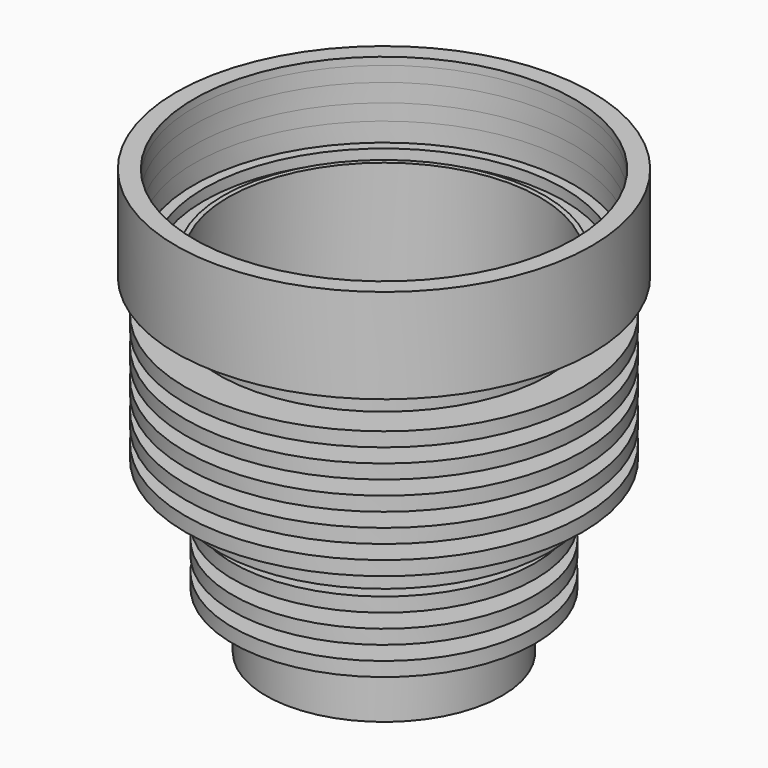
from build123d import *

# Parameters (mm, degrees)
SKETCH_R           = 25
SKETCH_R_2         = 23
PAD_DEPTH          = 22
SKETCH001_R        = 25
PAD001_DEPTH       = 8
SKETCH003_R        = 7
POCKET_DEPTH       = 8
SKETCH004_R        = 35
SKETCH004_R_2      = 23
PAD003_DEPTH       = 8
SKETCH005_R        = 1.25
POCKET001_DEPTH    = 6
POLARPATTERN_COUNT = 6
SKETCH006_R        = 35
SKETCH006_R_2      = 33
PAD004_DEPTH       = 32
SKETCH007_R        = 44
SKETCH007_R_2      = 33
PAD005_DEPTH       = 4
SKETCH008_R        = 38.1
SKETCH008_R_2      = 34
POCKET002_DEPTH    = 2.3
SKETCH009_R        = 44
SKETCH009_R_2      = 40.2
PAD006_DEPTH       = 16
FILLET_R           = 1
CYLINDER010_R      = 35
CYLINDER010_DEPTH  = 5
CYLINDER011_R      = 42
CYLINDER011_DEPTH  = 3
CYLINDER014_R      = 35
CYLINDER014_DEPTH  = 5
CYLINDER015_R      = 42
CYLINDER015_DEPTH  = 3
CYLINDER018_R      = 35
CYLINDER018_DEPTH  = 5
CYLINDER019_R      = 42
CYLINDER019_DEPTH  = 3
CYLINDER022_R      = 35
CYLINDER022_DEPTH  = 5
CYLINDER023_R      = 42
CYLINDER023_DEPTH  = 3
CYLINDER026_R      = 35
CYLINDER026_DEPTH  = 5
CYLINDER027_R      = 42
CYLINDER027_DEPTH  = 3
CYLINDER028_R      = 25
CYLINDER028_DEPTH  = 5
CYLINDER029_R      = 32
CYLINDER029_DEPTH  = 3
CYLINDER_R         = 25
CYLINDER_DEPTH     = 5
CYLINDER032_R      = 32
CYLINDER032_DEPTH  = 3
CYLINDER033_R      = 25
CYLINDER033_DEPTH  = 5
CYLINDER034_R      = 32
CYLINDER034_DEPTH  = 3
CYLINDER035_R      = 25
CYLINDER035_DEPTH  = 5
CYLINDER036_R      = 32
CYLINDER036_DEPTH  = 3
TORUS_R            = 1.6
CYLINDER031_R      = 41.2
CYLINDER031_DEPTH  = 3.4


with BuildPart() as obj1:
    # Sketch → Pad (new body)
    with BuildSketch(Plane.XY):
        Circle(SKETCH_R)
        Circle(SKETCH_R_2, mode=Mode.SUBTRACT)
    extrude(amount=PAD_DEPTH)

    # Sketch001 → Pad001 (new body)
    with BuildSketch(Plane(origin=(0, 0, 0), x_dir=(1, 0, 0), z_dir=(0, 0, -1))):
        Circle(SKETCH001_R)
    extrude(amount=PAD001_DEPTH)

    # Sketch003 → Pocket (cut)
    with BuildSketch(Plane.XY):
        Circle(SKETCH003_R)
    extrude(amount=-POCKET_DEPTH, mode=Mode.SUBTRACT)

    # Sketch004 → Pad003 (new body)
    with BuildSketch(Plane.XY.offset(22)):
        Circle(SKETCH004_R)
        Circle(SKETCH004_R_2, mode=Mode.SUBTRACT)
    extrude(amount=PAD003_DEPTH)

    # Sketch005 → Pocket001 (cut)
    with BuildSketch(Plane.XY.offset(30)):
        with Locations((-28, 0)):
            Circle(SKETCH005_R)
    pocket001 = extrude(amount=-POCKET001_DEPTH, mode=Mode.SUBTRACT)

    # PolarPattern: Pocket001 ×6 about axis
    polarpattern_axis = Axis((0, 0, 30), (0, 0, 1))
    for i in range(1, POLARPATTERN_COUNT):
        add(pocket001.rotate(polarpattern_axis, i * 360 / POLARPATTERN_COUNT), mode=Mode.SUBTRACT)

    # Sketch006 → Pad004 (new body)
    with BuildSketch(Plane.XY.offset(30)):
        Circle(SKETCH006_R)
        Circle(SKETCH006_R_2, mode=Mode.SUBTRACT)
    extrude(amount=PAD004_DEPTH)

    # Sketch007 → Pad005 (new body)
    with BuildSketch(Plane.XY.offset(62)):
        Circle(SKETCH007_R)
        Circle(SKETCH007_R_2, mode=Mode.SUBTRACT)
    extrude(amount=PAD005_DEPTH)

    # Sketch008 → Pocket002 (cut)
    with BuildSketch(Plane.XY.offset(66)):
        Circle(SKETCH008_R)
        Circle(SKETCH008_R_2, mode=Mode.SUBTRACT)
    extrude(amount=-POCKET002_DEPTH, mode=Mode.SUBTRACT)

    # Sketch009 → Pad006 (new body)
    with BuildSketch(Plane.XY.offset(66)):
        Circle(SKETCH009_R)
        Circle(SKETCH009_R_2, mode=Mode.SUBTRACT)
    extrude(amount=PAD006_DEPTH)


with BuildPart() as fillet_body:
    # Fillet base: copy of obj1
    add(obj1.part)

    # Fillet
    fillet_edges = [fillet_body.edges().sort_by_distance(p)[0] for p in [
        (-44, 0, 82),
        (-40.2, 0, 82),
    ]]
    fillet(fillet_edges, radius=FILLET_R)


with BuildPart() as obj2:
    # Cylinder010 → Cylinder010 (new body)
    with BuildSketch(Plane.XY):
        Circle(CYLINDER010_R)
    extrude(amount=CYLINDER010_DEPTH)


with BuildPart() as cut005:
    # Cylinder011 → Cylinder011 (new body)
    with BuildSketch(Plane.XY):
        Circle(CYLINDER011_R)
    extrude(amount=CYLINDER011_DEPTH)

    # Cut005: cut obj2
    add(obj2.part, mode=Mode.SUBTRACT)


with BuildPart() as cut005_1:
    # Cut005 placement: moved
    add(cut005.part.moved(Location((0, 0, 28))))


with BuildPart() as obj3:
    # Cylinder014 → Cylinder014 (new body)
    with BuildSketch(Plane.XY):
        Circle(CYLINDER014_R)
    extrude(amount=CYLINDER014_DEPTH)


with BuildPart() as cut007:
    # Cylinder015 → Cylinder015 (new body)
    with BuildSketch(Plane.XY):
        Circle(CYLINDER015_R)
    extrude(amount=CYLINDER015_DEPTH)

    # Cut007: cut obj3
    add(obj3.part, mode=Mode.SUBTRACT)


with BuildPart() as cut007_1:
    # Cut007 placement: moved
    add(cut007.part.moved(Location((0, 0, 34))))


with BuildPart() as obj4:
    # Cylinder018 → Cylinder018 (new body)
    with BuildSketch(Plane.XY):
        Circle(CYLINDER018_R)
    extrude(amount=CYLINDER018_DEPTH)


with BuildPart() as cut009:
    # Cylinder019 → Cylinder019 (new body)
    with BuildSketch(Plane.XY):
        Circle(CYLINDER019_R)
    extrude(amount=CYLINDER019_DEPTH)

    # Cut009: cut obj4
    add(obj4.part, mode=Mode.SUBTRACT)


with BuildPart() as cut009_1:
    # Cut009 placement: moved
    add(cut009.part.moved(Location((0, 0, 40))))


with BuildPart() as obj5:
    # Cylinder022 → Cylinder022 (new body)
    with BuildSketch(Plane.XY):
        Circle(CYLINDER022_R)
    extrude(amount=CYLINDER022_DEPTH)


with BuildPart() as cut011:
    # Cylinder023 → Cylinder023 (new body)
    with BuildSketch(Plane.XY):
        Circle(CYLINDER023_R)
    extrude(amount=CYLINDER023_DEPTH)

    # Cut011: cut obj5
    add(obj5.part, mode=Mode.SUBTRACT)


with BuildPart() as cut011_1:
    # Cut011 placement: moved
    add(cut011.part.moved(Location((0, 0, 46))))


with BuildPart() as obj6:
    # Cylinder026 → Cylinder026 (new body)
    with BuildSketch(Plane.XY):
        Circle(CYLINDER026_R)
    extrude(amount=CYLINDER026_DEPTH)


with BuildPart() as cut013:
    # Cylinder027 → Cylinder027 (new body)
    with BuildSketch(Plane.XY):
        Circle(CYLINDER027_R)
    extrude(amount=CYLINDER027_DEPTH)

    # Cut013: cut obj6
    add(obj6.part, mode=Mode.SUBTRACT)


with BuildPart() as cut013_1:
    # Cut013 placement: moved
    add(cut013.part.moved(Location((0, 0, 52))))


with BuildPart() as obj7:
    # Cylinder028 → Cylinder028 (new body)
    with BuildSketch(Plane.XY):
        Circle(CYLINDER028_R)
    extrude(amount=CYLINDER028_DEPTH)


with BuildPart() as cut014:
    # Cylinder029 → Cylinder029 (new body)
    with BuildSketch(Plane.XY):
        Circle(CYLINDER029_R)
    extrude(amount=CYLINDER029_DEPTH)

    # Cut014: cut obj7
    add(obj7.part, mode=Mode.SUBTRACT)


with BuildPart() as cut014_1:
    # Cut014 placement: moved
    add(cut014.part.moved(Location((0, 0, 22))))


with BuildPart() as obj8:
    # Cylinder → Cylinder (new body)
    with BuildSketch(Plane.XY):
        Circle(CYLINDER_R)
    extrude(amount=CYLINDER_DEPTH)


with BuildPart() as cut:
    # Cylinder032 → Cylinder032 (new body)
    with BuildSketch(Plane.XY):
        Circle(CYLINDER032_R)
    extrude(amount=CYLINDER032_DEPTH)

    # Cut: cut obj8
    add(obj8.part, mode=Mode.SUBTRACT)


with BuildPart() as cut_1:
    # Cut placement: moved
    add(cut.part.moved(Location((0, 0, 16))))


with BuildPart() as obj9:
    # Cylinder033 → Cylinder033 (new body)
    with BuildSketch(Plane.XY):
        Circle(CYLINDER033_R)
    extrude(amount=CYLINDER033_DEPTH)


with BuildPart() as cut018:
    # Cylinder034 → Cylinder034 (new body)
    with BuildSketch(Plane.XY):
        Circle(CYLINDER034_R)
    extrude(amount=CYLINDER034_DEPTH)

    # Cut018: cut obj9
    add(obj9.part, mode=Mode.SUBTRACT)


with BuildPart() as cut018_1:
    # Cut018 placement: moved
    add(cut018.part.moved(Location((0, 0, 10))))


with BuildPart() as obj10:
    # Cylinder035 → Cylinder035 (new body)
    with BuildSketch(Plane.XY):
        Circle(CYLINDER035_R)
    extrude(amount=CYLINDER035_DEPTH)


with BuildPart() as cut019:
    # Cylinder036 → Cylinder036 (new body)
    with BuildSketch(Plane.XY):
        Circle(CYLINDER036_R)
    extrude(amount=CYLINDER036_DEPTH)

    # Cut019: cut obj10
    add(obj10.part, mode=Mode.SUBTRACT)


with BuildPart() as cut019_1:
    # Cut019 placement: moved
    add(cut019.part.moved(Location((0, 0, 4))))


with BuildPart() as obj11:
    # Torus → Torus (revolve)
    with BuildSketch(Plane(origin=(0, 0, 78.8), x_dir=(1, 0, 0), z_dir=(0, -1, 0))):
        with Locations((40, 0)):
            Circle(TORUS_R)
    revolve(axis=Axis((0, 0, 78.8), (0, 0, 1)))


with BuildPart() as obj12:
    # Cylinder031 → Cylinder031 (new body)
    with BuildSketch(Plane.XY.offset(70)):
        Circle(CYLINDER031_R)
    extrude(amount=CYLINDER031_DEPTH)


with BuildPart() as cut021:
    # Cut020 base: copy of obj1
    add(obj1.part)

    # Cut020: cut obj12
    add(obj12.part, mode=Mode.SUBTRACT)

    # Cut021: cut obj11
    add(obj11.part, mode=Mode.SUBTRACT)


solid = Compound([fillet_body.part, cut005_1.part, cut007_1.part, cut009_1.part, cut011_1.part, cut013_1.part, cut014_1.part, cut_1.part, cut018_1.part, cut019_1.part, cut021.part])
